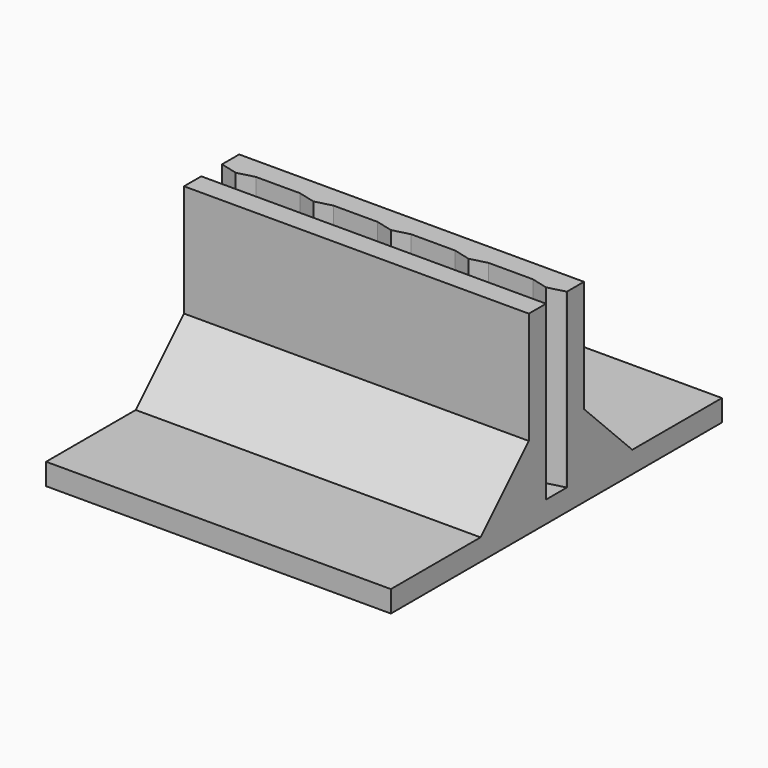
from build123d import *

# Parameters (mm, degrees)
F1_DEPTH = 50.8
F2_SIZE  = 8.89
F4_DEPTH = 25.4


with BuildPart() as f1:
    # F0 (on Right) → F1 (new body)
    with BuildSketch(Plane.YZ):
        Polygon((-30.48, 0), (0, 0), (30.48, 0), (30.48, 3.175), (5.08, 3.175), (5.08, 28.575), (1.905, 28.575), (1.905, 3.175), (0, 3.175), (-1.905, 3.175), (-1.905, 28.575), (-5.08, 28.575), (-5.08, 3.175), (-30.48, 3.175), align=None)
    extrude(amount=F1_DEPTH)

    # F2
    f2_edges = [f1.edges().sort_by_distance(p)[0] for p in [
        (25.4, 5.08, 3.175),
        (25.4, -5.08, 3.175),
    ]]
    chamfer(f2_edges, length=F2_SIZE)

    # F3 (on face) → F4 (join, through all)
    with BuildSketch(Plane.XY.offset(28.575)):
        Polygon((2.54, 1.27), (4.999344, 1.905), (0.080656, 1.905), align=None)
        Polygon((13.97, 1.27), (16.429344, 1.905), (11.510656, 1.905), align=None)
        Polygon((27.859344, 1.905), (25.4, 1.905), (25.4, 1.27), align=None)
        Polygon((25.4, 1.27), (25.4, 1.905), (22.940656, 1.905), align=None)
        Polygon((39.289344, 1.905), (34.370656, 1.905), (36.83, 1.27), align=None)
        Polygon((50.719344, 1.905), (45.800656, 1.905), (48.26, 1.27), align=None)
    extrude(amount=-F4_DEPTH)


solid = f1.part
